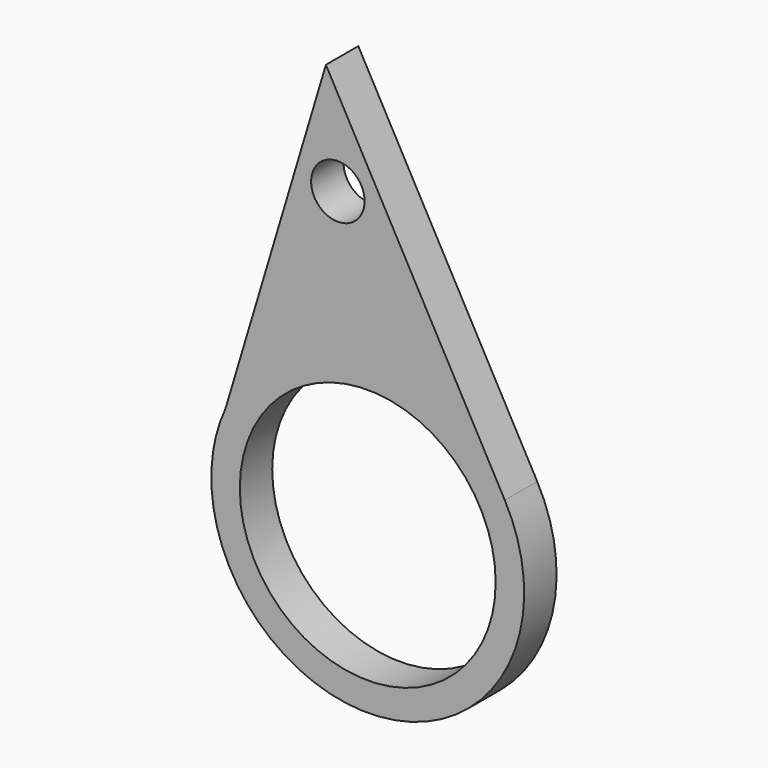
from build123d import *

# Parameters (mm, degrees)
F0_R     = 16.045413
F0_R_2   = 3.352999
F1_DEPTH = 5.08


with BuildPart() as f1:
    # F0 (on Front) → F1 (new body)
    with BuildSketch(Plane.XZ):
        with BuildLine():
            Line((-269.792154, -66.505959), (-268.242146, -61.329008))
            ThreePointArc((-268.242146, -61.329008), (-269.196215, -63.86387), (-269.792154, -66.505959))
        make_face()
        with BuildLine():
            Line((-255.64608, -19.258766), (-268.242146, -61.329008))
            Line((-268.242146, -61.329008), (-269.792154, -66.505959))
            ThreePointArc((-269.792154, -66.505959), (-246.977926, -88.814828), (-233.206555, -60.030735))
            Line((-233.206555, -60.030735), (-255.64608, -19.258766))
        make_face()
        with Locations((-250.397801, -69.492221)):
            Circle(F0_R, mode=Mode.SUBTRACT)
        with Locations((-254.146576, -32.754317)):
            Circle(F0_R_2, mode=Mode.SUBTRACT)
    extrude(amount=F1_DEPTH)


solid = f1.part
